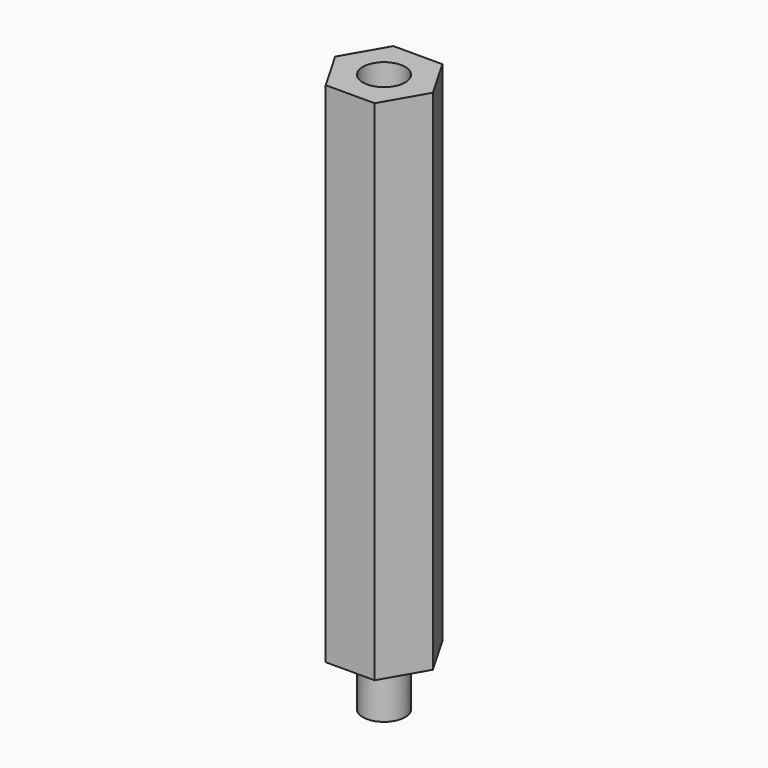
from build123d import *

# Parameters (mm, degrees)
F0_R     = 1.25
F1_DEPTH = 1.5
F2_R     = 1.25
F3_DEPTH = 30
F4_R     = 1.25
F5_DEPTH = 3


with BuildPart() as f1:
    # F0 (on Top) → F1 (new body, symmetric)
    with BuildSketch(Plane.XY):
        Circle(F0_R)
    extrude(amount=F1_DEPTH, both=True)

    # F2 (on face) → F3 (join)
    with BuildSketch(Plane.XY.offset(1.5)):
        Polygon((-1.443375673, -2.5), (1.443375673, -2.5), (2.8867513459, 0), (1.443375673, 2.5), (-1.443375673, 2.5), (-2.8867513459, 0), align=None)
        Circle(F2_R, mode=Mode.SUBTRACT)
        Circle(F2_R)
    extrude(amount=F3_DEPTH)

    # F4 (on face) → F5 (cut)
    with BuildSketch(Plane.XY.offset(31.5)):
        Circle(F4_R)
    extrude(amount=-F5_DEPTH, mode=Mode.SUBTRACT)


solid = f1.part
